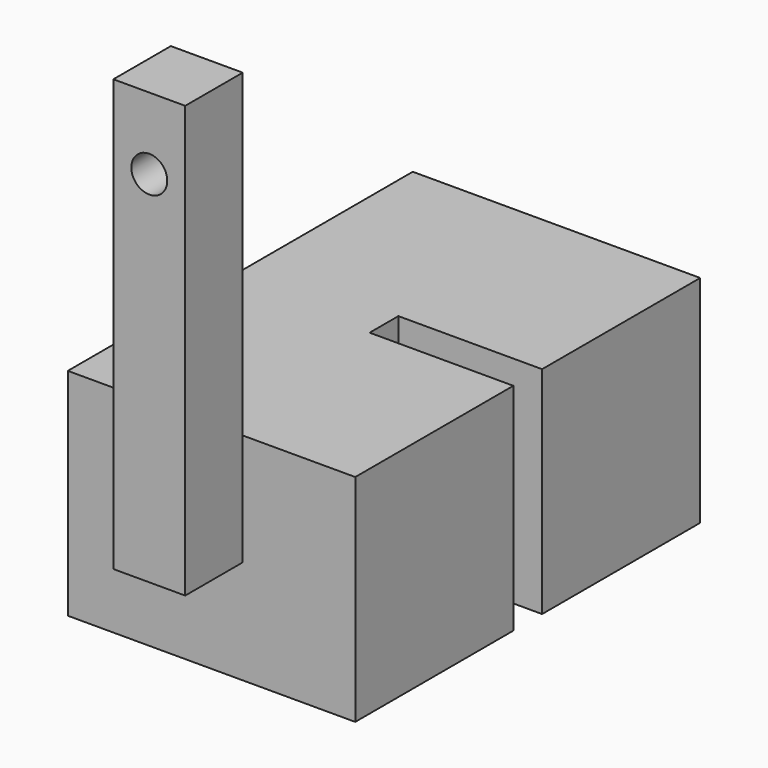
from build123d import *

# Parameters (mm, degrees)
F2_DEPTH = 19.05
F3_DEPTH = 76.2
F5_DEPTH = 25.4


with BuildPart() as f2:
    # F0 (on Top) → F2 (new body, symmetric)
    with BuildSketch(Plane.XY):
        Polygon((25.4, 38.1), (-25.4, 38.1), (-25.4, -38.1), (25.4, -38.1), (25.4, -3.175), (0, -3.175), (0, 0), (0, 3.175), (25.4, 3.175), align=None)
    extrude(amount=F2_DEPTH, both=True)


with BuildPart() as f3:
    # F1 (on Top) → F3 (new body)
    with BuildSketch(Plane.XY):
        Polygon((6.35, -39.151846), (0, -39.151846), (-6.35, -39.151846), (-6.35, -51.851846), (6.35, -51.851846), align=None)
    extrude(amount=F3_DEPTH)

    # F4 (on face) → F5 (cut, symmetric)
    with BuildSketch(Plane.XZ.offset(51.851846)):
        with BuildLine():
            ThreePointArc((3.175, 63.5), (2.245064, 65.745064), (0, 66.675))
            ThreePointArc((0, 66.675), (-2.245064, 61.254936), (3.175, 63.5))
        make_face()
    extrude(amount=F5_DEPTH, both=True, mode=Mode.SUBTRACT)


solid = Compound([f2.part, f3.part])
